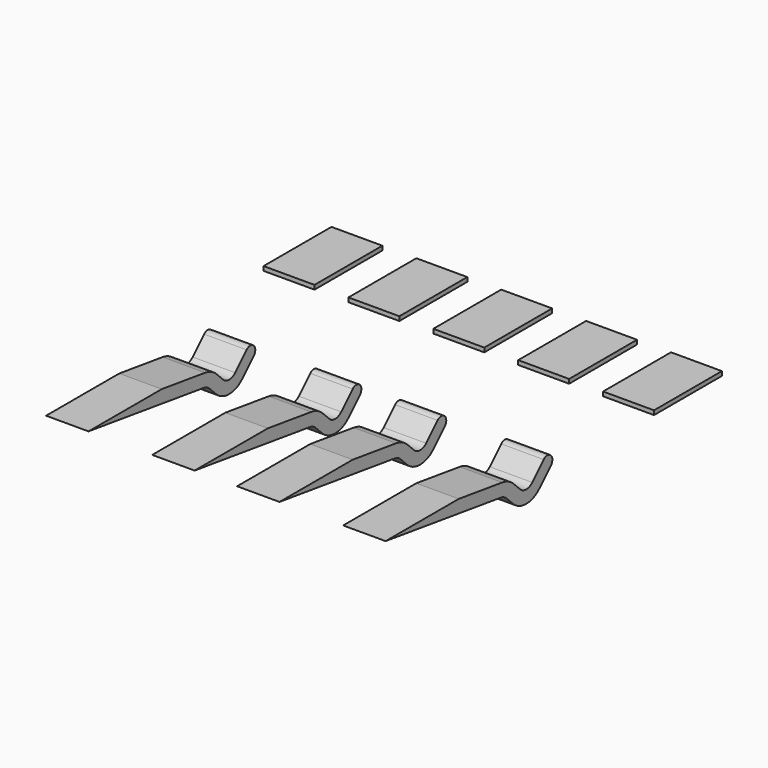
from build123d import *

# Parameters (mm, degrees)
EXTRUDE010_DEPTH = 1
BOX053_W         = 1.2
BOX053_H         = 2
BOX053_DEPTH     = 0.1
ARRAY015_X_COUNT = 5
ARRAY015_X_PITCH = 2


with BuildPart() as extrude010:
    # Sketch011 → Extrude010 (new body)
    with BuildSketch(Plane.YZ):
        with BuildLine():
            Line((1.279699, -0.17985), (0, 0))
            Line((0, 0), (-2.155589, 0))
            Line((-2.155589, 0), (1.237947, -0.47693))
            ThreePointArc((1.408328, -0.561879), (1.330055, -0.505531), (1.237947, -0.47693))
            Line((1.408328, -0.561879), (1.596448, -0.749999))
            ThreePointArc((1.596448, -0.749999), (1.985356, -0.91109), (2.374264, -0.75))
            Line((2.374264, -0.75), (2.712132, -0.412132))
            ThreePointArc((2.712132, -0.412132), (2.712132, -0.2), (2.5, -0.2))
            Line((2.162133, -0.537867), (2.5, -0.2))
            ThreePointArc((1.80858, -0.537867), (1.985356, -0.61109), (2.162133, -0.537867))
            Line((1.62046, -0.349747), (1.80858, -0.537867))
            ThreePointArc((1.62046, -0.349747), (1.463914, -0.23705), (1.279699, -0.17985))
        make_face()
    extrude(amount=EXTRUDE010_DEPTH)


with BuildPart() as extrude010_1:
    # Extrude010 placement: moved
    add(extrude010.part.moved(Location((-4, 0, 0))))


with BuildPart() as clone021:
    # Clone021 base: copy of Extrude010
    add(extrude010_1.part)


with BuildPart() as clone021_1:
    # Clone021 placement: moved
    add(clone021.part.moved(Location((2.5, 0, 0))))


with BuildPart() as clone022:
    # Clone022 base: copy of Extrude010
    add(extrude010_1.part)


with BuildPart() as clone022_1:
    # Clone022 placement: moved
    add(clone022.part.moved(Location((4.5, 0, 0))))


with BuildPart() as clone023:
    # Clone023 base: copy of Extrude010
    add(extrude010_1.part)


with BuildPart() as clone023_1:
    # Clone023 placement: moved
    add(clone023.part.moved(Location((7, 0, 0))))


with BuildPart() as fusion040:
    # Fusion040 base: copy of Extrude010
    add(extrude010_1.part)

    # Fusion040: union Clone021, Clone022, Clone023
    add(clone021_1.part)
    add(clone022_1.part)
    add(clone023_1.part)


with BuildPart() as fusion040_1:
    # Fusion040 placement: moved
    add(fusion040.part.moved(Location((0, 10, 12.6))))


with BuildPart() as pins_upper_connector:
    # Box053 → Box053 (new body)
    with BuildSketch(Plane(origin=(-4.6, 15, 12.5), x_dir=(1, 0, 0), z_dir=(0, 0, 1))):
        with Locations((0.6, 1)):
            Rectangle(BOX053_W, BOX053_H)
    extrude(amount=BOX053_DEPTH)

    # Array015 X: Pins (Upper Connector) ×5


with BuildPart() as pins_upper_connector_1:
    add(pins_upper_connector.part)
    with Locations(*[(i * ARRAY015_X_PITCH, 0, 0) for i in range(1, ARRAY015_X_COUNT)]):
        add(pins_upper_connector.part)

    # Fusion041: union Fusion040
    add(fusion040_1.part)


solid = pins_upper_connector_1.part
